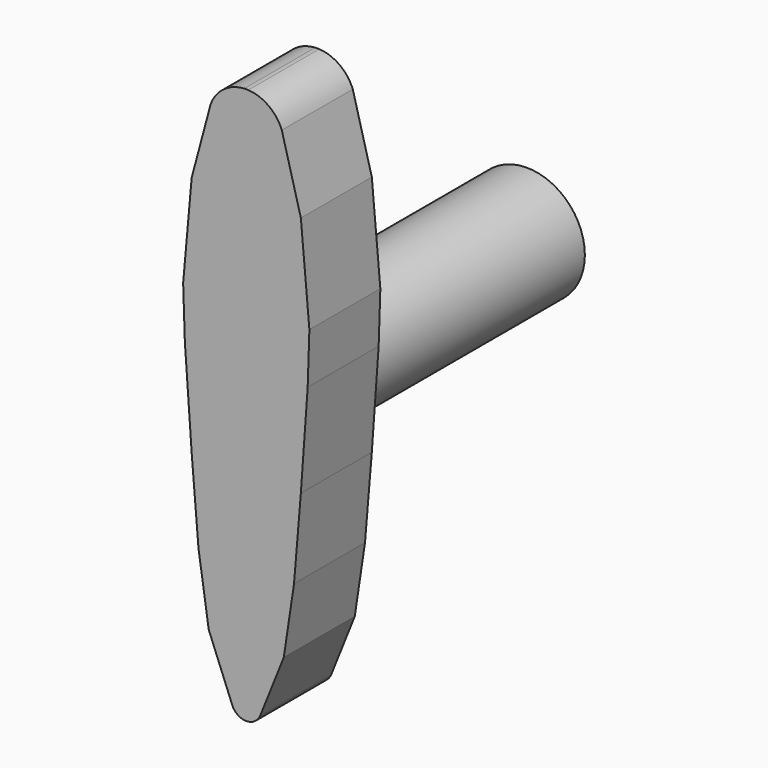
from build123d import *

# Parameters (mm, degrees)
F4_DEPTH = 10.31875
F1_R     = 6.746875
F5_DEPTH = 30.48
F6_DEPTH = 35.3822
F7_DEPTH = 7.9375


with BuildPart() as f4:
    # F0 (on Front) → F4 (new body)
    with BuildSketch(Plane.XZ):
        with BuildLine():
            Line((-7.342188, 5.953125), (-7.14375, 0))
            Line((-7.14375, 0), (7.14375, 0))
            Line((7.14375, 0), (7.342187, 5.953125))
            Line((7.342187, 5.953125), (6.35, 17.065625))
            Line((6.35, 17.065625), (4.13357, 25.340298))
            ThreePointArc((4.13357, 25.340298), (2.602599, 27.338054), (0.23001, 28.178125))
            Line((0.23001, 28.178125), (-0.23001, 28.178125))
            ThreePointArc((-0.23001, 28.178125), (-2.602599, 27.338054), (-4.13357, 25.340298))
            Line((-4.13357, 25.340298), (-6.35, 17.065625))
            Line((-6.35, 17.065625), (-7.342188, 5.953125))
        make_face()
        with BuildLine():
            Line((7.14375, 0), (-7.14375, 0))
            Line((-7.14375, 0), (-6.35, -11.1125))
            Line((-6.35, -11.1125), (-5.55625, -20.6375))
            Line((-5.55625, -20.6375), (-4.365625, -28.575))
            Line((-4.365625, -28.575), (-1.63132, -35.410762))
            ThreePointArc((-1.63132, -35.410762), (-1.007245, -36.195929), (-0.055542, -36.5125))
            Line((-0.055542, -36.5125), (0.057313, -36.5125))
            ThreePointArc((0.057313, -36.5125), (0.979065, -36.216412), (1.604621, -35.477511))
            Line((1.604621, -35.477511), (4.365625, -28.575))
            Line((4.365625, -28.575), (5.55625, -20.6375))
            Line((5.55625, -20.6375), (6.35, -11.1125))
            Line((6.35, -11.1125), (7.14375, 0))
        make_face()
        with BuildLine():
            ThreePointArc((0.23001, 28.178125), (0, 28.184106), (-0.23001, 28.178125))
            Line((-0.23001, 28.178125), (0.23001, 28.178125))
        make_face()
        with BuildLine():
            Line((0.057313, -36.5125), (-0.055542, -36.5125))
            ThreePointArc((-0.055542, -36.5125), (0.000885, -36.513405), (0.057313, -36.5125))
        make_face()
    extrude(amount=F4_DEPTH)

    # F1 (on Front) → F5 (join)
    with BuildSketch(Plane.XZ):
        with Locations((0, -3.175531)):
            Circle(F1_R)
    extrude(amount=-F5_DEPTH)

    # F2 (on Front) → F6 (cut)
    with BuildSketch(Plane.XZ):
        Polygon((-1.543482, 0.332913), (-2.525697, -0.649303), (-3.507913, -1.631518), (1.543482, -6.682913), (2.525697, -5.700697), (3.507913, -4.718482), align=None)
    extrude(amount=-F6_DEPTH, mode=Mode.SUBTRACT)

    # F3 (on Front) → F7 (join)
    with BuildSketch(Plane.XZ):
        Polygon((-1.543482, 0.332913), (-2.525697, -0.649303), (-3.507913, -1.631518), (1.543482, -6.682913), (2.525697, -5.700697), (3.507913, -4.718482), align=None)
    extrude(amount=-F7_DEPTH)


solid = f4.part
